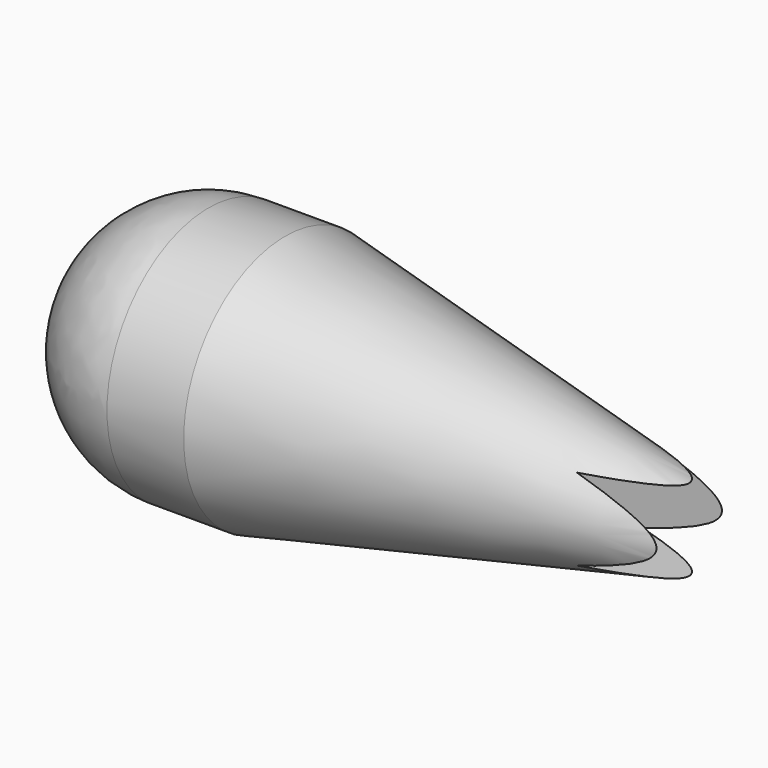
from build123d import *

# Parameters (mm, degrees)
F1_W     = 6.35
F1_H     = 6.35
F3_DEPTH = 62.406244


with BuildPart() as f2:
    # F0 (on Top) → F2 (revolve)
    with BuildSketch(Plane.XY):
        with BuildLine():
            Line((-9.333627, 1.915156), (-46.597632, 9.852656))
            Line((-46.597632, 9.852656), (-52.552588, 9.852656))
            ThreePointArc((-52.552588, 9.852656), (-59.519468, 6.96688), (-62.405244, 0))
            Line((-62.405244, 0), (-7.762354, 0))
            ThreePointArc((-7.762354, 0), (-8.212572, 1.232769), (-9.333627, 1.915156))
        make_face()
    revolve(axis=Axis((-35.677824, 0, 0), (1, 0, 0)))

    # F1 (on Right) → F3 (cut, through all)
    with BuildSketch(Plane.YZ):
        Rectangle(F1_W, F1_H)
    extrude(amount=-F3_DEPTH, mode=Mode.SUBTRACT)


solid = f2.part
